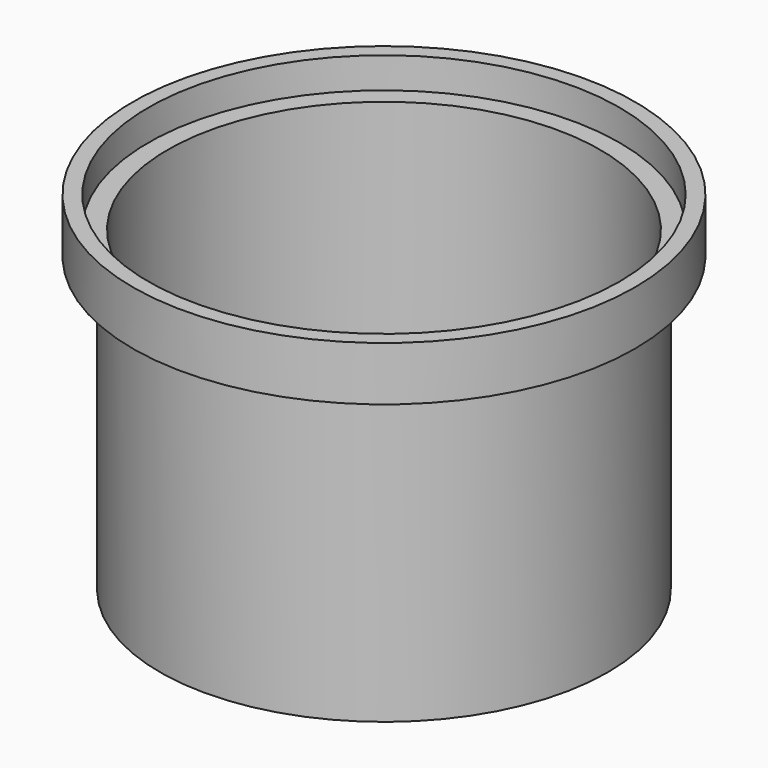
from build123d import *

# Parameters (mm, degrees)
F1_R     = 7.366
F2_DEPTH = 9.652
F3_R     = 8.255
F4_DEPTH = 1.778
F5_R     = 7.747
F6_DEPTH = 1.016
F0_R     = 7.112
F7_DEPTH = 19.304


with BuildPart() as f2:
    # F1 (on Top) → F2 (new body)
    with BuildSketch(Plane.XY):
        Circle(F1_R)
    extrude(amount=F2_DEPTH)

    # F3 (on face) → F4 (join)
    with BuildSketch(Plane.XY.offset(9.652)):
        Circle(F3_R)
    extrude(amount=F4_DEPTH)

    # F5 (on face) → F6 (cut)
    with BuildSketch(Plane.XY.offset(11.43)):
        Circle(F5_R)
    extrude(amount=-F6_DEPTH, mode=Mode.SUBTRACT)

    # F0 (on Top) → F7 (cut)
    with BuildSketch(Plane.XY):
        Circle(F0_R)
    extrude(amount=F7_DEPTH, mode=Mode.SUBTRACT)


solid = f2.part
